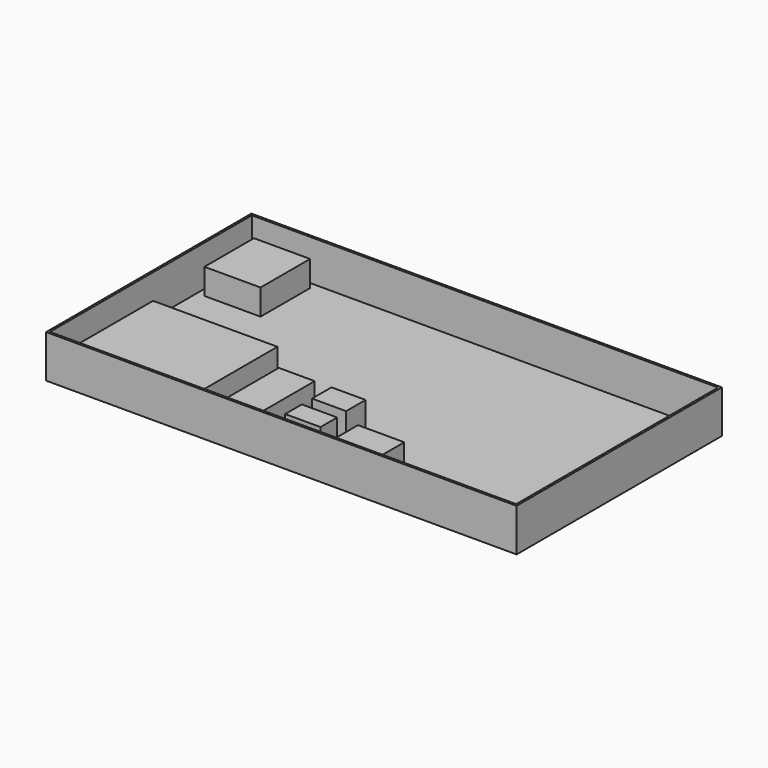
from build123d import *

# Parameters (mm, degrees)
F0_W     = 1397
F0_H     = 762
F1_DEPTH = 127
F2_T     = -6.35
F3_W     = 369.288891
F3_H     = 305.73687
F3_W_2   = 106.492617
F3_H_2   = 225.008592
F3_W_3   = 101.339743
F3_H_3   = 72.140157
F3_W_4   = 104.774971
F3_H_4   = 61.834409
F3_W_5   = 166.609407
F3_H_5   = 183.785647
F3_W_6   = 137.409859
F3_H_6   = 147.064967
F4_DEPTH = 76.2


with BuildPart() as f1:
    # F0 (on Top) → F1 (new body)
    with BuildSketch(Plane.XY):
        Rectangle(F0_W, F0_H)
    extrude(amount=F1_DEPTH)

    # F2
    f2_openings = [f1.faces().sort_by_distance(p)[0] for p in [
        (0, 0, 127),
    ]]
    offset(amount=F2_T, openings=f2_openings)


with BuildPart() as f4:
    # F3 (on face) → F4 (new body)
    with BuildSketch(Plane.XY.offset(6.35)):
        with Locations((-471.487477, -189.797327)):
            Rectangle(F3_W, F3_H)
        with Locations((-164.89179, -230.161466)):
            Rectangle(F3_W_2, F3_H_2)
        with Locations((-11.164538, -153.727249)):
            Rectangle(F3_W_3, F3_H_3)
        with Locations((-9.446925, -258.502237)):
            Rectangle(F3_W_4, F3_H_4)
        with Locations((-586.568237, 262.796297)):
            Rectangle(F3_W_5, F3_H_5)
        with Locations((173.479918, -301.117516)):
            Rectangle(F3_W_6, F3_H_6)
    extrude(amount=F4_DEPTH)


solid = Compound([f1.part, f4.part])
